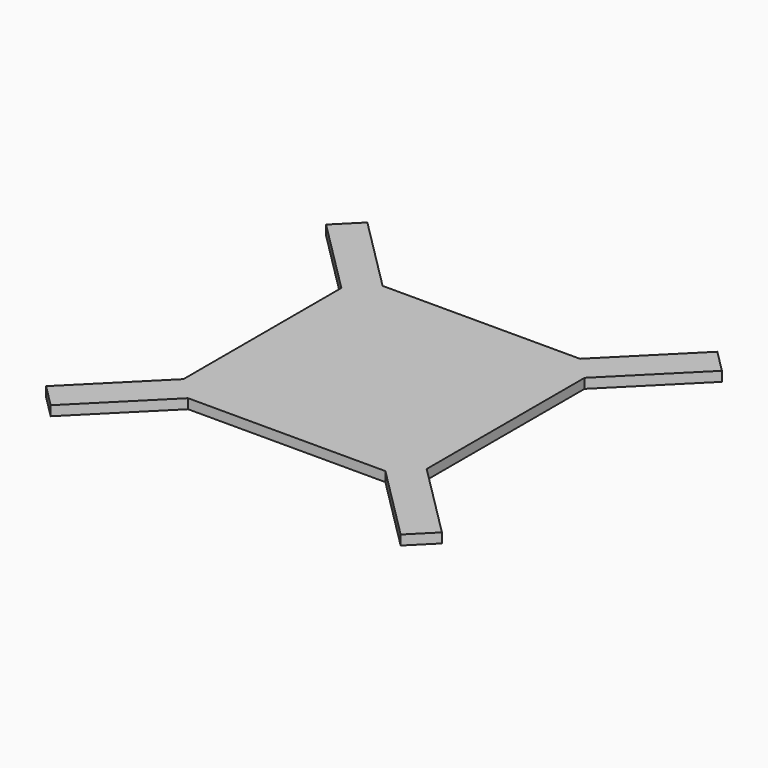
from build123d import *

# Parameters (mm, degrees)
F1_DEPTH = 3


with BuildPart() as f1:
    # F0 (on Top) → F1 (new body)
    with BuildSketch(Plane.XY):
        Polygon((-37.5, -30.428932), (-37.5, -37.5), (-30.428932, -37.5), (30.428932, -37.5), (37.5, -37.5), (37.5, -30.428932), (37.5, 30.428932), (37.5, 37.5), (30.428932, 37.5), (-30.428932, 37.5), (-37.5, 37.5), (-37.5, 30.428932), align=None)
        Polygon((-30.428932, -37.5), (-37.5, -37.5), (-37.5, -30.428932), (-61.035534, -53.964466), (-57.5, -57.5), (-53.964466, -61.035534), align=None)
        Polygon((37.5, -37.5), (30.428932, -37.5), (53.964466, -61.035534), (57.5, -57.5), (61.035534, -53.964466), (37.5, -30.428932), align=None)
        Polygon((-61.035534, 53.964466), (-37.5, 30.428932), (-37.5, 37.5), (-30.428932, 37.5), (-53.964466, 61.035534), (-57.5, 57.5), align=None)
        Polygon((37.5, 37.5), (37.5, 30.428932), (61.035534, 53.964466), (57.5, 57.5), (53.964466, 61.035534), (30.428932, 37.5), align=None)
    extrude(amount=F1_DEPTH)


solid = f1.part
